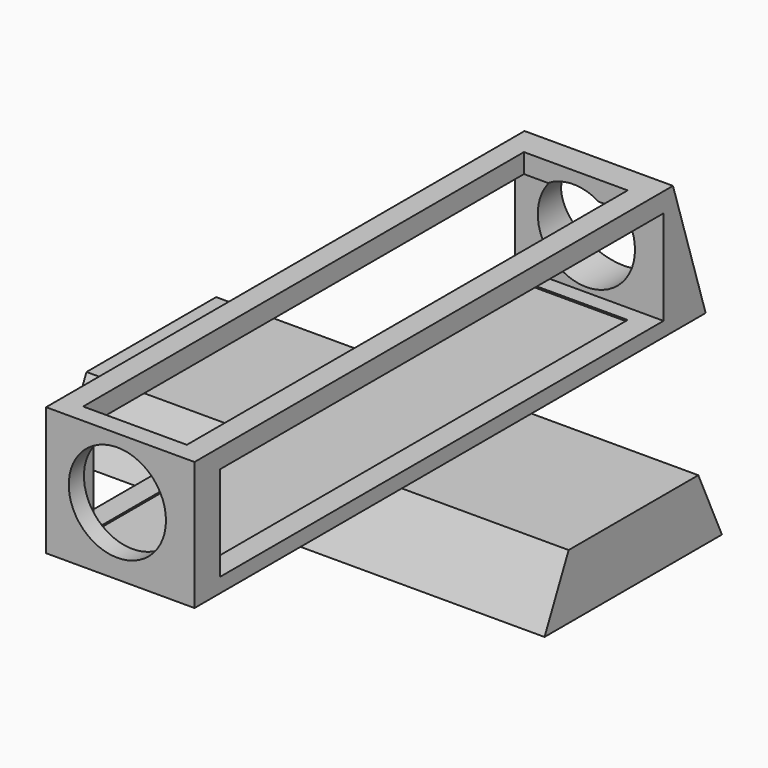
from build123d import *

# Parameters (mm, degrees)
F0_W      = 9.525
F0_H      = 4.380480709
F1_DEPTH  = 1.27
F2_W      = 2.9321946495
F2_H      = 12.622077018
F3_DEPTH  = 2.54
F6_DEPTH  = 25.4
F8_DEPTH  = 25.4
F9_R      = 0.9600996903
F10_DEPTH = 25.4
F11_W     = 2.0492244512
F11_H     = 10.8852496778
F12_DEPTH = 2.286
F13_W     = 10.9546062886
F13_H     = 1.8707374111
F14_DEPTH = 25.4


with BuildPart() as f1:
    # F0 (on Top) → F1 (new body)
    with BuildSketch(Plane.XY):
        with Locations((-23.2204422355, 6.7132576369)):
            Rectangle(F0_W, F0_H)
    extrude(amount=F1_DEPTH)

    # F2 (on face) → F3 (join)
    with BuildSketch(Plane.XY.offset(1.27)):
        with Locations((-23.2204422355, 6.311038509)):
            Rectangle(F2_W, F2_H)
    extrude(amount=F3_DEPTH)

    # F5 (on face) → F6 (cut)
    with BuildSketch(Plane.YZ.offset(-18.4579422355)):
        Polygon((4.5230172824, 1.27), (4.5230172824, 0), (5.1185246557, 1.27), align=None)
        Polygon((8.3203641698, 1.27), (8.9034979914, 0), (8.9034979914, 1.27), align=None)
    extrude(amount=-F6_DEPTH, mode=Mode.SUBTRACT)

    # F7 (on face) → F8 (cut)
    with BuildSketch(Plane.YZ.offset(-21.7543449107)):
        Polygon((11.8150692433, 3.81), (12.622077018, 1.27), (12.622077018, 3.81), align=None)
    extrude(amount=-F8_DEPTH, mode=Mode.SUBTRACT)

    # F9 (on face) → F10 (cut)
    with BuildSketch(Plane.XZ):
        with Locations((-23.2783449107, 2.6081991382)):
            Circle(F9_R)
    extrude(amount=-F10_DEPTH, mode=Mode.SUBTRACT)

    # F11 (on face) → F12 (cut)
    with BuildSketch(Plane.XY.offset(3.81)):
        with Locations((-23.2297061011, 5.8172373829)):
            Rectangle(F11_W, F11_H)
    extrude(amount=-F12_DEPTH, mode=Mode.SUBTRACT)

    # F13 (on face) → F14 (cut)
    with BuildSketch(Plane.YZ.offset(-21.7543449107)):
        with Locations((6.1044846952, 2.4918210693)):
            Rectangle(F13_W, F13_H)
    extrude(amount=-F14_DEPTH, mode=Mode.SUBTRACT)


solid = f1.part
